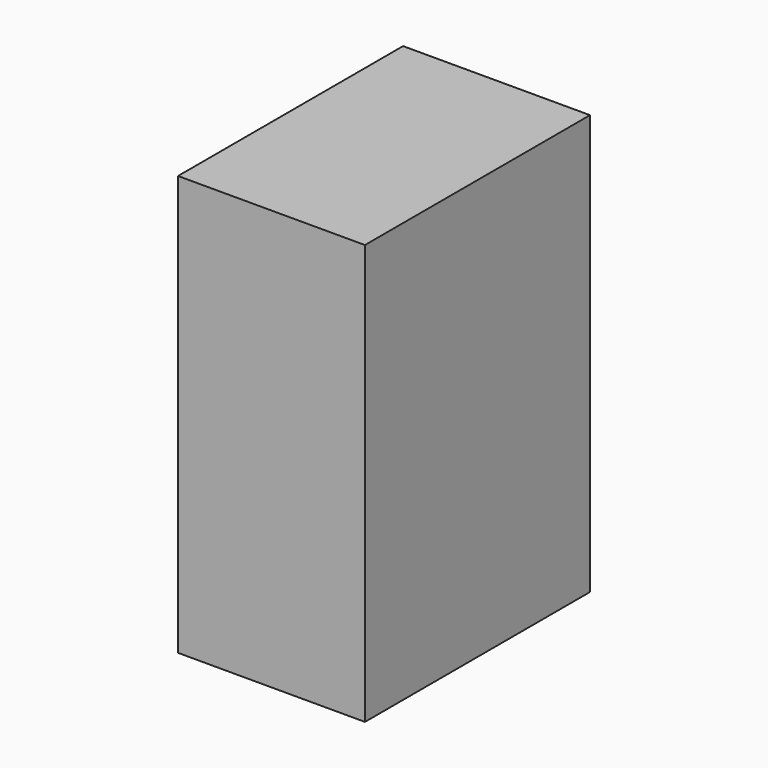
from build123d import *

# Parameters (mm, degrees)
F0_W     = 109.7068488598
F0_H     = 102.4645417929
F1_DEPTH = 246.38
F3_DEPTH = 165.1


with BuildPart() as f1:
    # F0 (on Top) → F1 (new body)
    with BuildSketch(Plane.XY):
        Rectangle(F0_W, F0_H)
    extrude(amount=F1_DEPTH)

    # F3 (add): a face of the model
    f3_faces = [f1.faces().sort_by_distance(p)[0] for p in [
        (0, -51.2322708964, 123.19),
    ]]
    extrude(f3_faces, amount=-F3_DEPTH)


solid = f1.part
